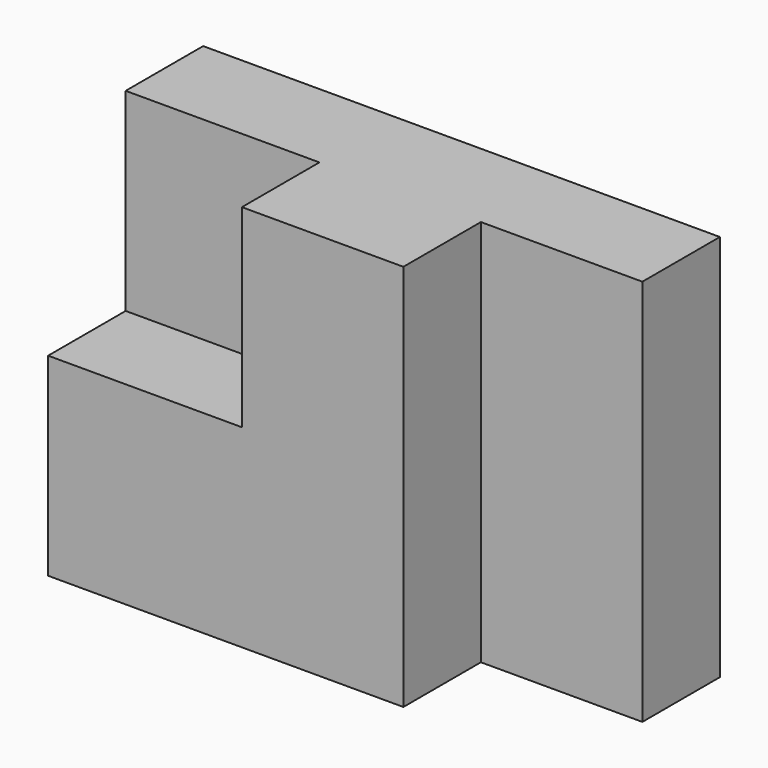
from build123d import *

# Parameters (mm, degrees)
F0_W     = 30
F0_H     = 30
F0_W_2   = 25
F0_H_2   = 60
F1_DEPTH = 30
F2_DEPTH = 15


with BuildPart() as f1:
    # F0 (on Front) → F1 (new body)
    with BuildSketch(Plane.XZ):
        Polygon((0, 30), (0, 0), (55, 0), (55, 60), (30, 60), (30, 30), align=None)
        with Locations((15, 45)):
            Rectangle(F0_W, F0_H)
        with Locations((67.5, 30)):
            Rectangle(F0_W_2, F0_H_2)
    extrude(amount=-F1_DEPTH)

    # F0 (on Front) → F2 (cut)
    with BuildSketch(Plane.XZ):
        with Locations((15, 45)):
            Rectangle(F0_W, F0_H)
        with Locations((67.5, 30)):
            Rectangle(F0_W_2, F0_H_2)
    extrude(amount=-F2_DEPTH, mode=Mode.SUBTRACT)


solid = f1.part
